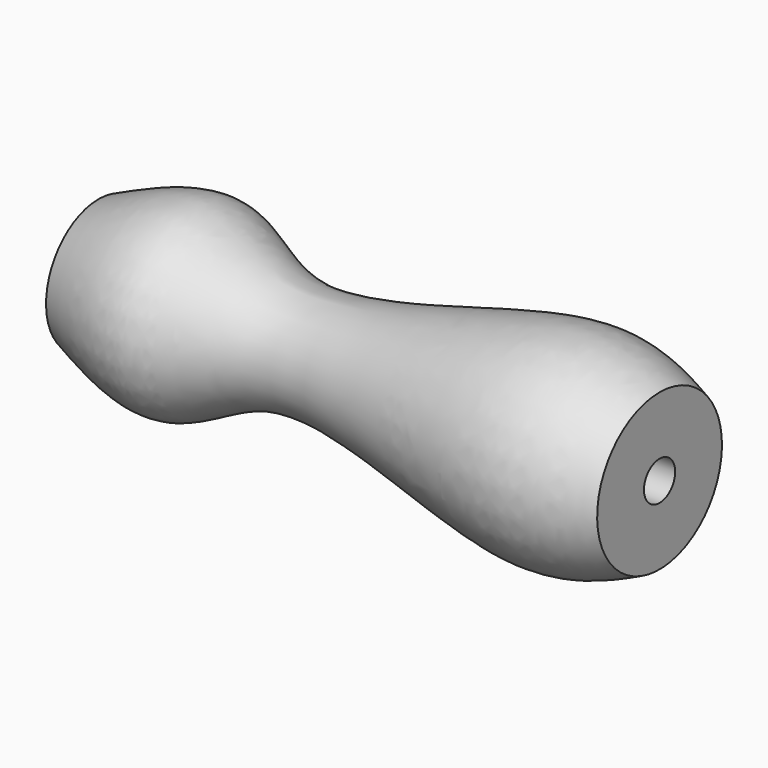
from build123d import *


with BuildPart() as f1:
    # F0 (on Front) → F1 (revolve)
    with BuildSketch(Plane.XZ):
        with BuildLine():
            Line((-116.6966110468, 4.0558064356), (0, 4.0558064356))
            Line((0, 4.0558064356), (0, 16.2232257426))
            add(Edge.make_bspline(
                [(-116.6966110468, 13.6422580108), (-109.3379042602, 16.8825866806), (-94.5296502416, 23.4032446492), (-75.7829385636, 3.4484815385), (-21.7101412866, 25.8736387822), (-6.1176626269, 18.9425987032), (0, 16.2232257426)],
                knots=[0, 0, 0, 0, 0.2172152145, 0.4371118685, 0.7791525157, 1, 1, 1, 1], degree=3))
            Line((-116.6966110468, 13.6422580108), (-116.6966110468, 4.0558064356))
        make_face()
    revolve(axis=Axis((-58.3483055234, 0, 0), (-1, 0, 0)))


solid = f1.part
